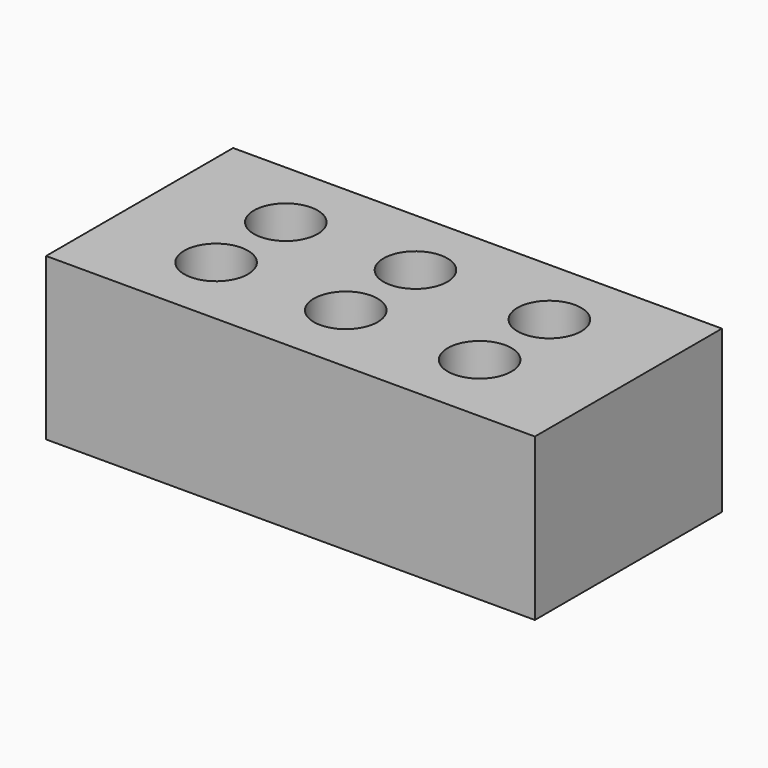
from build123d import *

# Parameters (mm, degrees)
CYLINDER001_R     = 15
CYLINDER001_DEPTH = 82
CYLINDER002_R     = 15
CYLINDER002_DEPTH = 82
CYLINDER003_R     = 15
CYLINDER003_DEPTH = 82
CYLINDER004_R     = 15
CYLINDER004_DEPTH = 82
CYLINDER005_R     = 15
CYLINDER005_DEPTH = 82
CYLINDER_R        = 15
CYLINDER_DEPTH    = 82
BOX_W             = 230
BOX_H             = 110
BOX_DEPTH         = 76


with BuildPart() as cilindre001:
    # Cylinder001 → Cylinder001 (new body)
    with BuildSketch(Plane(origin=(176, 76, -4), x_dir=(1, 0, 0), z_dir=(0, 0, 1))):
        Circle(CYLINDER001_R)
    extrude(amount=CYLINDER001_DEPTH)


with BuildPart() as cilindre002:
    # Cylinder002 → Cylinder002 (new body)
    with BuildSketch(Plane(origin=(176, 35, -4), x_dir=(1, 0, 0), z_dir=(0, 0, 1))):
        Circle(CYLINDER002_R)
    extrude(amount=CYLINDER002_DEPTH)


with BuildPart() as cilindre003:
    # Cylinder003 → Cylinder003 (new body)
    with BuildSketch(Plane(origin=(113, 76, -4), x_dir=(1, 0, 0), z_dir=(0, 0, 1))):
        Circle(CYLINDER003_R)
    extrude(amount=CYLINDER003_DEPTH)


with BuildPart() as cilindre004:
    # Cylinder004 → Cylinder004 (new body)
    with BuildSketch(Plane(origin=(52, 35, -4), x_dir=(1, 0, 0), z_dir=(0, 0, 1))):
        Circle(CYLINDER004_R)
    extrude(amount=CYLINDER004_DEPTH)


with BuildPart() as cilindre005:
    # Cylinder005 → Cylinder005 (new body)
    with BuildSketch(Plane(origin=(52, 76, -4), x_dir=(1, 0, 0), z_dir=(0, 0, 1))):
        Circle(CYLINDER005_R)
    extrude(amount=CYLINDER005_DEPTH)


with BuildPart() as cilindre:
    # Cylinder → Cylinder (new body)
    with BuildSketch(Plane(origin=(113, 35, -4), x_dir=(1, 0, 0), z_dir=(0, 0, 1))):
        Circle(CYLINDER_R)
    extrude(amount=CYLINDER_DEPTH)


with BuildPart() as cut005:
    # Box → Box (new body)
    with BuildSketch(Plane.XY):
        with Locations((115, 55)):
            Rectangle(BOX_W, BOX_H)
    extrude(amount=BOX_DEPTH)

    # Cut: cut Cilindre
    add(cilindre.part, mode=Mode.SUBTRACT)

    # Cut001: cut Cilindre005
    add(cilindre005.part, mode=Mode.SUBTRACT)

    # Cut002: cut Cilindre004
    add(cilindre004.part, mode=Mode.SUBTRACT)

    # Cut003: cut Cilindre003
    add(cilindre003.part, mode=Mode.SUBTRACT)

    # Cut004: cut Cilindre002
    add(cilindre002.part, mode=Mode.SUBTRACT)

    # Cut005: cut Cilindre001
    add(cilindre001.part, mode=Mode.SUBTRACT)


solid = cut005.part
